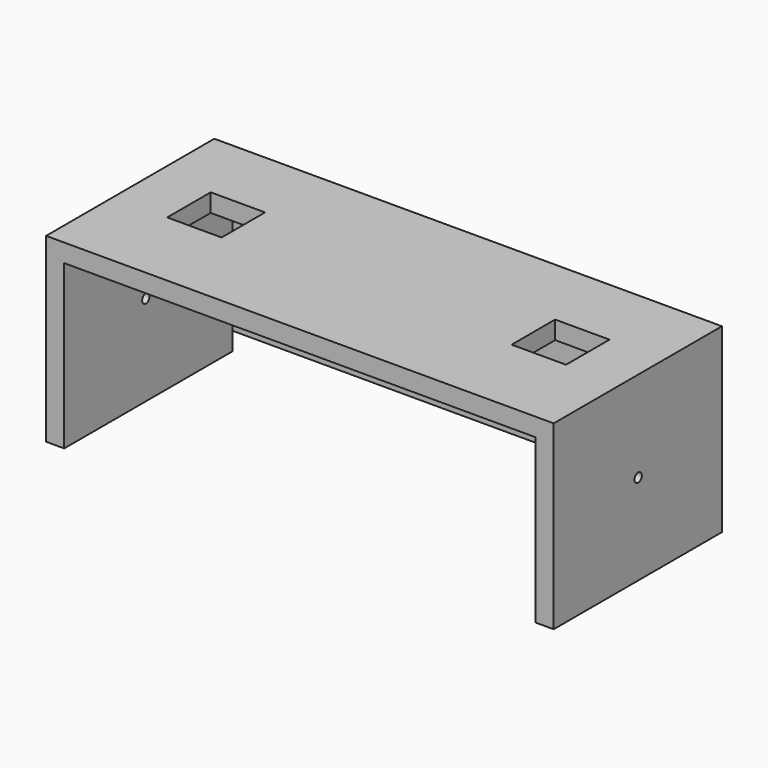
from build123d import *

# Parameters (mm, degrees)
F0_W      = 355.6
F0_H      = 127
F1_DEPTH  = 147.32
F2_W      = 330.2
F2_H      = 101.6
F3_DEPTH  = 147.32
F4_W      = 330.2
F4_H      = 101.6
F6_DEPTH  = 0.254
F7_R      = 3.245311
F8_DEPTH  = 25.4
F9_R      = 3.186869
F10_DEPTH = 25.4
F3_FACE_W = 330.2
F3_FACE_H = 147.32
F11_DEPTH = 25.4
F12_W     = 38.1
F12_H     = 38.1
F13_DEPTH = 25.4
F14_DEPTH = 25.4


with BuildPart() as f1:
    # F0 (on Front) → F1 (new body)
    with BuildSketch(Plane.XZ):
        Rectangle(F0_W, F0_H)
    extrude(amount=F1_DEPTH)

    # F2 (on face) → F3 (cut, through all)
    with BuildSketch(Plane.XZ.offset(147.32)):
        Rectangle(F2_W, F2_H)
    extrude(amount=-F3_DEPTH, mode=Mode.SUBTRACT)

    # F7 (on face) → F8 (cut)
    with BuildSketch(Plane(origin=(-177.8, 0, 0), x_dir=(0, -1, 0), z_dir=(-1, 0, 0))):
        with Locations((75.803846, 0)):
            Circle(F7_R)
    extrude(amount=-F8_DEPTH, mode=Mode.SUBTRACT)

    # F9 (on face) → F10 (cut)
    with BuildSketch(Plane.YZ.offset(177.8)):
        with Locations((-73.342763, 0)):
            Circle(F9_R)
    extrude(amount=-F10_DEPTH, mode=Mode.SUBTRACT)

    # F3_face (on face) → F11 (cut)
    with BuildSketch(Plane(origin=(0, -73.66, -50.8), x_dir=(1, 0, 0), z_dir=(0, 0, 1))):
        Rectangle(F3_FACE_W, F3_FACE_H)
    extrude(amount=-F11_DEPTH, mode=Mode.SUBTRACT)

    # F12 (on face) → F13 (cut)
    with BuildSketch(Plane.XY.offset(63.5)):
        with Locations((120.65, -69.85)):
            Rectangle(F12_W, F12_H)
    extrude(amount=-F13_DEPTH, mode=Mode.SUBTRACT)

    # F12 (on face) → F14 (cut)
    with BuildSketch(Plane.XY.offset(63.5)):
        with Locations((-120.65, -69.85)):
            Rectangle(F12_W, F12_H)
    extrude(amount=-F14_DEPTH, mode=Mode.SUBTRACT)


with BuildPart() as f6:
    # F4 (on face) → F6 (new body)
    with BuildSketch(Plane(origin=(0, 0, 0), x_dir=(-1, 0, 0), z_dir=(0, 1, 0))):
        Rectangle(F4_W, F4_H)
    extrude(amount=F6_DEPTH)


solid = Compound([f1.part, f6.part])
